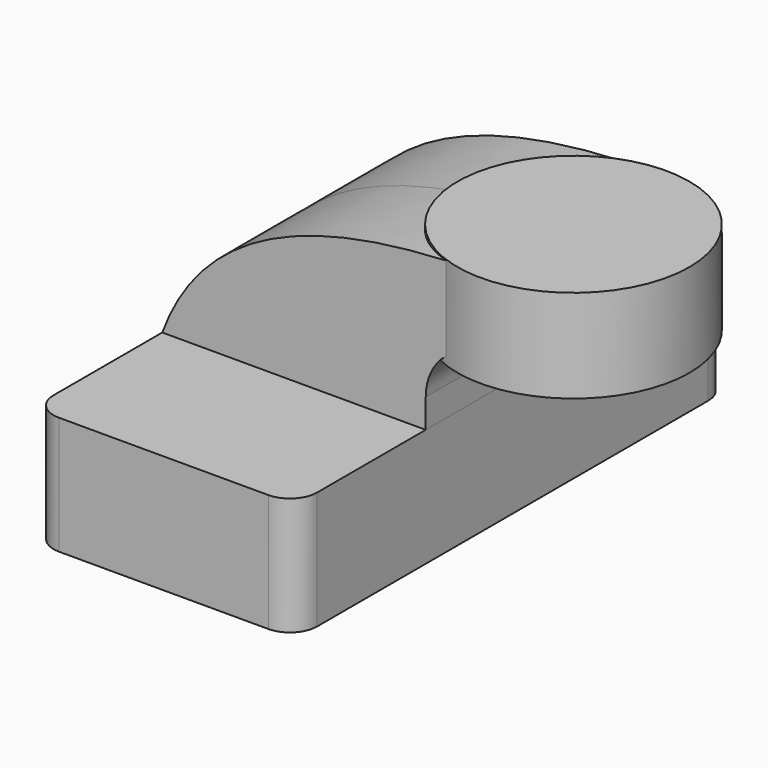
from build123d import *

# Parameters (mm, degrees)
F0_W     = 61.615169
F0_H     = 27.580866
F1_DEPTH = 63.5
F2_DEPTH = 25.4
F4_R     = 6.35


with BuildPart() as f1:
    # F0 (on Front) → F1 (new body, symmetric)
    with BuildSketch(Plane.XZ):
        with Locations((-30.807584, 7.456179)):
            Rectangle(F0_W, F0_H)
    extrude(amount=F1_DEPTH, both=True)

    # F0 (on Front) → F2 (join, symmetric)
    with BuildSketch(Plane.XZ):
        with BuildLine():
            add(Edge.make_bspline(
                [(-61.615169, 21.246612), (-51.106244, 49.939442), (-20.719279, 57.734624), (14.235076, 57.867013)],
                knots=[0, 0, 0, 0, 84.227748, 84.227748, 84.227748, 84.227748], degree=3))
            Line((-61.615169, 21.246612), (0, 21.246612))
            Line((0, 21.246612), (0, 28.003424))
            ThreePointArc((0, 28.003424), (4.263451, 37.58451), (14.235076, 40.831182))
            Line((14.235076, 40.831182), (14.235076, 57.867013))
        make_face()
    extrude(amount=F2_DEPTH, both=True)

    # F0 (on Front) → F3 (revolve)
    with BuildSketch(Plane.XZ):
        Polygon((41.351497, 57.867013), (14.235076, 57.867013), (14.235076, 40.831182), (14.235076, 36.095049), (41.351497, 36.095049), align=None)
    revolve(axis=Axis((14.235076, 0, 46.981031), (0, 0, -1)))

    # F4
    f4_edges = [f1.edges().sort_by_distance(p)[0] for p in [
        (0, -63.5, 7.456179),
        (-61.615169, -63.5, 7.456179),
        (0, 63.5, 7.456179),
        (-61.615169, 63.5, 7.456179),
    ]]
    fillet(f4_edges, radius=F4_R)


solid = f1.part
